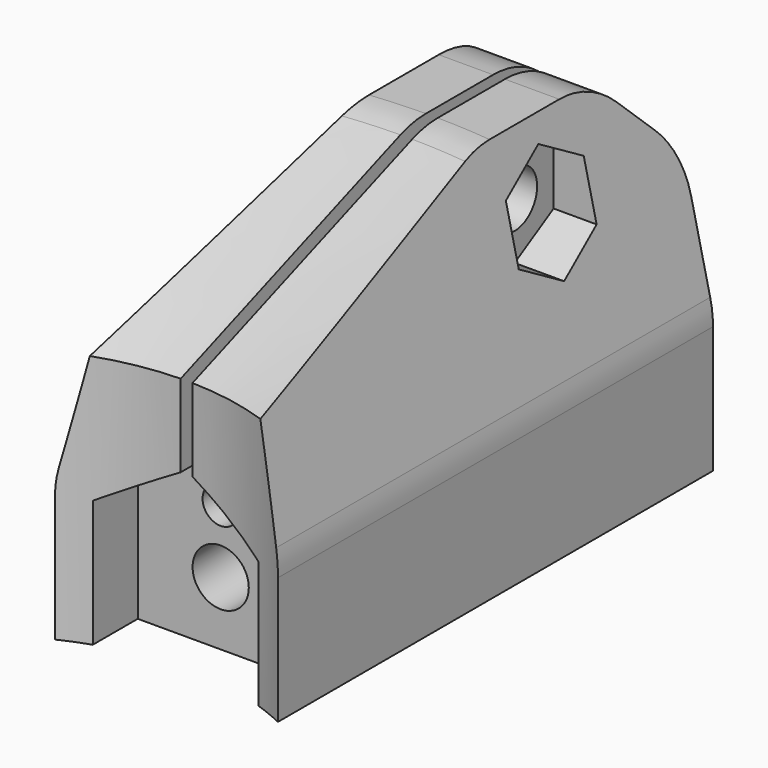
from build123d import *

# Parameters (mm, degrees)
EXTRUDE003_DEPTH                     = 10
SKETCH009_R                          = 3.1
EXTRUDE002_DEPTH                     = 10
EXTRUDE001_DEPTH                     = 2.65
EXTRUDE001_ONTO_SKETCH005_ROLL_ANGLE = 90
EXTRUDE_DEPTH                        = 30
EXTRUDE_ONTO_SKETCH_ROLL_ANGLE       = 90
POCKET_DEPTH                         = 20.000966
SKETCH002_W                          = 9.15
SKETCH002_H                          = 3.1
POCKET001_DEPTH                      = 7
POCKET002_DEPTH                      = 3.739432
SKETCH004_R                          = 1.55
POCKET003_DEPTH                      = 7
SKETCH006_W                          = 6
SKETCH006_H                          = 4
POCKET004_DEPTH                      = 9.5
SKETCH007_R                          = 4.15
POCKET005_DEPTH                      = 14.611568
FILLET_R                             = 2.5
FILLET001_R                          = 1
FILLET002_R                          = 2
FILLET003_R                          = 1
CHAMFER_1_SIZE2                      = 16
CHAMFER_1_SIZE                       = 6
CHAMFER_2_SIZE2                      = 16
CHAMFER_2_SIZE                       = 6
CHAMFER001_SIZE                      = 5
SKETCH008_R                          = 1.55
POCKET006_DEPTH                      = 5.826
POCKET006_DEPTH_BACK                 = 6.476
FILLET004_R                          = 5


with BuildPart() as extrude003:
    # Sketch010 → Extrude003 (new body)
    with BuildSketch(Plane(origin=(0.325, 0, 0), x_dir=(0, -1, 0), z_dir=(-1, 0, 0))):
        Polygon((-21.103517, 11.668627), (-23.788196, 10.118627), (-23.788196, 7.018627), (-21.103517, 5.468627), (-18.418839, 7.018627), (-18.418839, 10.118627), align=None)
    extrude(amount=-EXTRUDE003_DEPTH)


with BuildPart() as extrude003_1:
    # Extrude003 placement: moved
    add(extrude003.part.moved(Location((2, 0, 0))))


with BuildPart() as extrude002:
    # Sketch009 → Extrude002 (new body)
    with BuildSketch(Plane.YZ.offset(-0.325)):
        with Locations((21.103517, 8.568627)):
            Circle(SKETCH009_R)
    extrude(amount=-EXTRUDE002_DEPTH)


with BuildPart() as extrude002_1:
    # Extrude002 placement: moved
    add(extrude002.part.moved(Location((-2, 0, 0))))


with BuildPart() as extrude001:
    # Sketch005 as drawn → Extrude001 (new)
    with BuildSketch(Plane.XY):
        Polygon((-2.75, -6.999966), (2.75, -6.999966), (2.75, -1.912252), (0, -0.324539), (-2.75, -1.912252), align=None)
    extrude(amount=-EXTRUDE001_DEPTH)


with BuildPart() as extrude001_1:
    # Extrude001 onto Sketch005 roll: moved
    add(extrude001.part.rotate(Axis((0, 0, 0), (1, 0, 0)), EXTRUDE001_ONTO_SKETCH005_ROLL_ANGLE))


with BuildPart() as extrude001_2:
    # Extrude001 onto Sketch005 placement: moved
    add(extrude001_1.part.moved(Location((0, 3.738432, 0))))


with BuildPart() as extrude001_3:
    # Extrude001 placement: moved
    add(extrude001_2.part.moved(Location((0, 3, 0))))


with BuildPart() as cut002:
    # Sketch as drawn → Extrude (new)
    with BuildSketch(Plane.XY):
        with BuildLine():
            ThreePointArc((-5.994013, 1.376339), (-6.110877, 0.692592), (-6.15, 3.4e-05))
            Line((-6.15, 3.4e-05), (-6.15, -6.999966))
            Line((-6.15, -6.999966), (6.15, -6.999966))
            Line((6.15, -6.999966), (6.15, 0))
            ThreePointArc((6.15, 0), (6.110879, 0.692575), (5.994013, 1.376339))
            Line((5.994013, 1.376339), (3.325, 13))
            Line((3.325, 13), (0.325, 13))
            Line((0.325, 13), (0.325, 0.945714))
            ThreePointArc((-0.325, 0.945714), (0, -1), (0.325, 0.945714))
            Line((-0.325, 13), (-0.325, 0.945714))
            Line((-3.325, 13), (-0.325, 13))
            Line((-5.994013, 1.376339), (-3.325, 13))
        make_face()
    extrude(amount=-EXTRUDE_DEPTH)


with BuildPart() as cut002_1:
    # Extrude onto Sketch roll: moved
    add(cut002.part.rotate(Axis((0, 0, 0), (1, 0, 0)), EXTRUDE_ONTO_SKETCH_ROLL_ANGLE))


with BuildPart() as cut002_2:
    # Extrude onto Sketch placement: moved
    add(cut002_1.part)

    # Sketch001 → Pocket (cut, through all)
    with BuildSketch(Plane(origin=(0, 0, -6.999966), x_dir=(1, 0, 0), z_dir=(0, 0, -1))):
        with BuildLine():
            Line((-6.15, 0), (6.15, 0))
            ThreePointArc((-6.15, 0), (0, -1.390023), (6.15, 0))
        make_face()
    extrude(amount=-POCKET_DEPTH, mode=Mode.SUBTRACT)

    # Sketch002 → Pocket001 (cut)
    with BuildSketch(Plane(origin=(0, 0, -6.999966), x_dir=(1, 0, 0), z_dir=(0, 0, -1))):
        with Locations((0, -2.188432)):
            Rectangle(SKETCH002_W, SKETCH002_H)
    extrude(amount=-POCKET001_DEPTH, mode=Mode.SUBTRACT)

    # Sketch003 → Pocket002 (cut, through all)
    with BuildSketch(Plane.XZ.offset(-3.738432)):
        Polygon((4.575, 3.4e-05), (-4.575, 3.4e-05), (0, 2.641412), align=None)
    extrude(amount=POCKET002_DEPTH, mode=Mode.SUBTRACT)

    # Sketch004 → Pocket003 (cut)
    with BuildSketch(Plane.XZ.offset(-3.738432)):
        with Locations((0, -3.499966)):
            Circle(SKETCH004_R)
    extrude(amount=-POCKET003_DEPTH, mode=Mode.SUBTRACT)

    # Cut: cut Extrude001
    add(extrude001_3.part, mode=Mode.SUBTRACT)

    # Sketch006 → Pocket004 (cut)
    with BuildSketch(Plane(origin=(0, 0, -6.999966), x_dir=(1, 0, 0), z_dir=(0, 0, -1))):
        with Locations((0, -13.388432)):
            Rectangle(SKETCH006_W, SKETCH006_H)
    extrude(amount=-POCKET004_DEPTH, mode=Mode.SUBTRACT)

    # Sketch007 → Pocket005 (cut)
    with BuildSketch(Plane(origin=(0, 30, 0), x_dir=(-1, 0, 0), z_dir=(0, 1, 0))):
        Circle(SKETCH007_R)
    extrude(amount=-POCKET005_DEPTH, mode=Mode.SUBTRACT)

    # Fillet
    fillet_edges = [cut002_2.edges().sort_by_distance(p)[0] for p in [
        (3, 13.388432, 2.500034),
        (-3, 13.388432, 2.500034),
    ]]
    fillet(fillet_edges, radius=FILLET_R)

    # Fillet001
    fillet001_edges = [cut002_2.edges().sort_by_distance(p)[0] for p in [
        (3, 11.388432, -3.499966),
        (2.267767, 11.388432, 1.767801),
        (0.4125, 11.388432, 2.500034),
        (-3, 11.388432, -3.499966),
        (-2.267767, 11.388432, 1.767801),
        (-0.4125, 11.388432, 2.500034),
    ]]
    fillet(fillet001_edges, radius=FILLET001_R)

    # Fillet002
    fillet002_edges = [cut002_2.edges().sort_by_distance(p)[0] for p in [
        (0, 15.388432, -4.15),
    ]]
    fillet(fillet002_edges, radius=FILLET002_R)

    # Fillet003
    fillet003_edges = [cut002_2.edges().sort_by_distance(p)[0] for p in [
        (3, 13.888432, -6.999966),
        (0, 15.388432, -6.999966),
        (2.707107, 11.681325, -6.999966),
        (0, 11.388432, -6.999966),
        (-3, 13.888432, -6.999966),
        (-2.707107, 11.681325, -6.999966),
    ]]
    fillet(fillet003_edges, radius=FILLET003_R)

    # Chamfer 1
    chamfer_1_edges = [cut002_2.edges().sort_by_distance(p)[0] for p in [
        (1.835295, 1.271761, 13),
    ]]
    chamfer_1_side = cut002_2.faces().sort_by_distance((3.310874, 1.001462, 3.000017))[0]
    chamfer(chamfer_1_edges, length=CHAMFER_1_SIZE, length2=CHAMFER_1_SIZE2, reference=chamfer_1_side)

    # Chamfer 2
    chamfer_2_edges = [cut002_2.edges().sort_by_distance(p)[0] for p in [
        (-1.835295, 1.271761, 13),
    ]]
    chamfer_2_side = cut002_2.faces().sort_by_distance((-3.310874, 1.001462, 3.000017))[0]
    chamfer(chamfer_2_edges, length=CHAMFER_2_SIZE, length2=CHAMFER_2_SIZE2, reference=chamfer_2_side)

    # Chamfer001
    chamfer001_edges = [cut002_2.edges().sort_by_distance(p)[0] for p in [
        (1.825, 30, 13),
        (-1.825, 30, 13),
    ]]
    chamfer(chamfer001_edges, length=CHAMFER001_SIZE)

    # Sketch008 → Pocket006 (cut, two sides)
    with BuildSketch(Plane.YZ.offset(-0.325)) as pocket006_sk:
        with Locations((21.103517, 8.568627)):
            Circle(SKETCH008_R)
    extrude(amount=-POCKET006_DEPTH, mode=Mode.SUBTRACT)
    extrude(pocket006_sk.sketch, amount=POCKET006_DEPTH_BACK, mode=Mode.SUBTRACT)

    # Fillet004
    fillet004_edges = [cut002_2.edges().sort_by_distance(p)[0] for p in [
        (1.825, 25, 13),
        (1.827249, 17.334877, 13),
        (2.399047, 30, 8),
        (-2.399047, 30, 8),
        (-1.825, 25, 13),
        (-1.827249, 17.334877, 13),
    ]]
    fillet(fillet004_edges, radius=FILLET004_R)

    # Cut001: cut Extrude002
    add(extrude002_1.part, mode=Mode.SUBTRACT)

    # Cut002: cut Extrude003
    add(extrude003_1.part, mode=Mode.SUBTRACT)


solid = cut002_2.part
